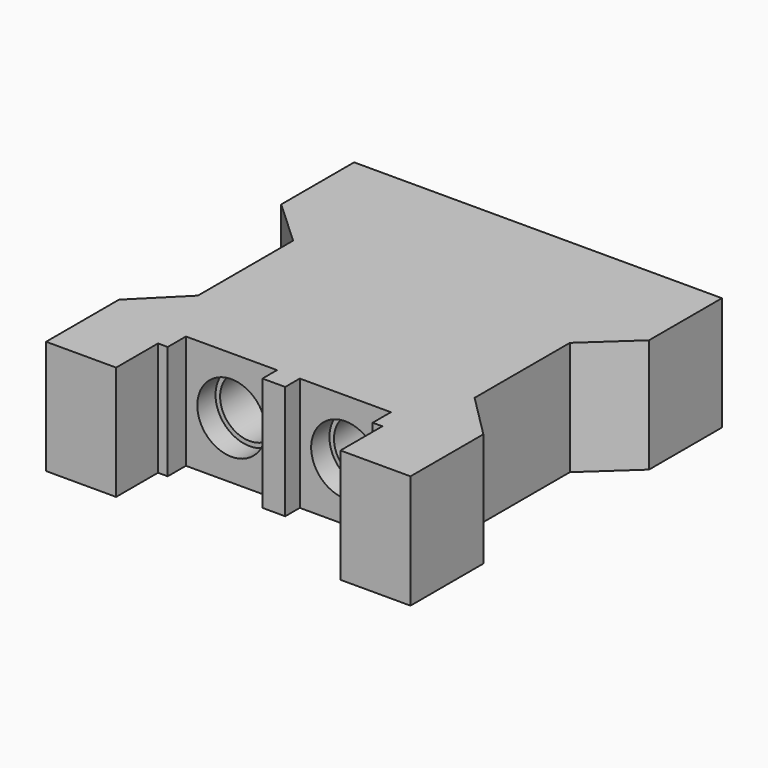
from build123d import *

# Parameters (mm, degrees)
SKETCH072_R            = 2.7
PAD031_DEPTH           = 10
SKETCH069_R            = 2.6
POCKET028_DEPTH        = 10
SKETCH070_R            = 3
POCKET029_DEPTH        = 2
SKETCH073_R            = 2
POCKET030_DEPTH        = 8
CUT003_PLACEMENT_ANGLE = 90


with BuildPart() as loft004:
    # Sketch072 → Loft004 section 0
    with BuildSketch(Plane.XY.offset(20)):
        with Locations((-5, 0)):
            Circle(SKETCH072_R)
    # Sketch071 → Loft004 section 1
    with BuildSketch(Plane.XY.offset(38)):
        with BuildLine():
            ThreePointArc((-6.3, 3), (-9.3, 0), (-6.3, -3))
            Line((-6.3, -3), (-3.3, -3))
            ThreePointArc((-3.3, -3), (-0.3, 0), (-3.3, 3))
            Line((-3.3, 3), (-6.3, 3))
        make_face()
    loft()


with BuildPart() as part_mirroring004:
    # Part__Mirroring004: instance of Loft004
    add(loft004.part.mirror(Plane(origin=(0, 0, 0), x_dir=(0, -1, 0), z_dir=(1, 0, 0))))


with BuildPart() as fusion004:
    # Fusion004 base: copy of Loft004
    add(loft004.part)

    # Fusion004: union Part__Mirroring004
    add(part_mirroring004.part)


with BuildPart() as cut003:
    # Sketch068 → Pad031 (new body)
    with BuildSketch(Plane.XZ):
        Polygon((-16, 4), (-9.85, 4), (-9.85, 7), (-9.85, 8.6), (-9, 8.6), (-9, 10.6), (-1, 10.6), (-1, 9), (1, 9), (1, 10.6), (9, 10.6), (9, 8.6), (9.85, 8.6), (9.85, 7), (9.85, 4), (16, 4), (16, 12), (12.15, 15.85), (12.15, 26.306086), (16.15, 30), (16.15, 38), (-16.15, 38), (-16.15, 30), (-12.15, 26.306086), (-12.15, 15.85), (-16, 12), align=None)
    extrude(amount=PAD031_DEPTH)

    # Sketch069 (on Face7 of Pad031) → Pocket028 (cut)
    with BuildSketch(Plane(origin=(0, 0, 10.6), x_dir=(1, 0, 0), z_dir=(0, 0, -1))):
        with Locations((-5, 5)):
            Circle(SKETCH069_R)
        with Locations((5, 5)):
            Circle(SKETCH069_R)
    extrude(amount=-POCKET028_DEPTH, mode=Mode.SUBTRACT)

    # Sketch070 (on Face11 of Pocket028) → Pocket029 (cut)
    with BuildSketch(Plane(origin=(0, 0, 10.6), x_dir=(1, 0, 0), z_dir=(0, 0, -1))):
        with Locations((-5, 5)):
            Circle(SKETCH070_R)
        with Locations((5, 5)):
            Circle(SKETCH070_R)
    extrude(amount=-POCKET029_DEPTH, mode=Mode.SUBTRACT)

    # Sketch073 (on Face26 of Pocket029) → Pocket030 (cut)
    with BuildSketch(Plane(origin=(0, 0, 38), x_dir=(-1, 0, 0), z_dir=(0, 0, 1))):
        with Locations((-12, 5)):
            Circle(SKETCH073_R)
        with Locations((12, 5)):
            Circle(SKETCH073_R)
    extrude(amount=-POCKET030_DEPTH, mode=Mode.SUBTRACT)


with BuildPart() as cut003_1:
    # Body025 placement: moved
    add(cut003.part.moved(Location((0, 5, 0))))

    # Cut003: cut Fusion004
    add(fusion004.part, mode=Mode.SUBTRACT)


with BuildPart() as cut003_2:
    # Cut003 placement: moved
    add(cut003_1.part.moved(Location((0, -512, 24))).rotate(Axis((0, -512, 24), (-1, 0, 0)), CUT003_PLACEMENT_ANGLE))


solid = cut003_2.part
